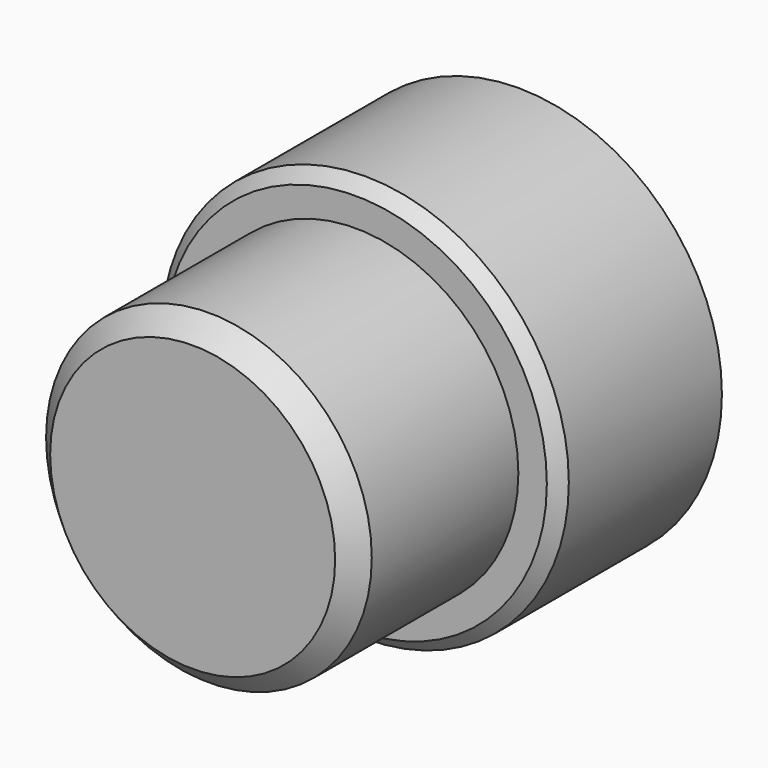
from build123d import *

# Parameters (mm, degrees)
F0_R     = 20
F1_DEPTH = 50
F0_R_2   = 25
F2_DEPTH = 25
F3_SIZE  = 2.5
F4_SIZE  = 1.5


with BuildPart() as f1:
    # F0 (on Front) → F1 (new body)
    with BuildSketch(Plane.XZ):
        Circle(F0_R)
    extrude(amount=F1_DEPTH)

    # F0 (on Front) → F2 (join)
    with BuildSketch(Plane.XZ):
        Circle(F0_R_2)
        Circle(F0_R, mode=Mode.SUBTRACT)
    extrude(amount=F2_DEPTH)

    # F3
    f3_edges = [f1.edges().sort_by_distance(p)[0] for p in [
        (-20, -50, 0),
    ]]
    chamfer(f3_edges, length=F3_SIZE)

    # F4
    f4_edges = [f1.edges().sort_by_distance(p)[0] for p in [
        (-25, -25, 0),
    ]]
    chamfer(f4_edges, length=F4_SIZE)


solid = f1.part
